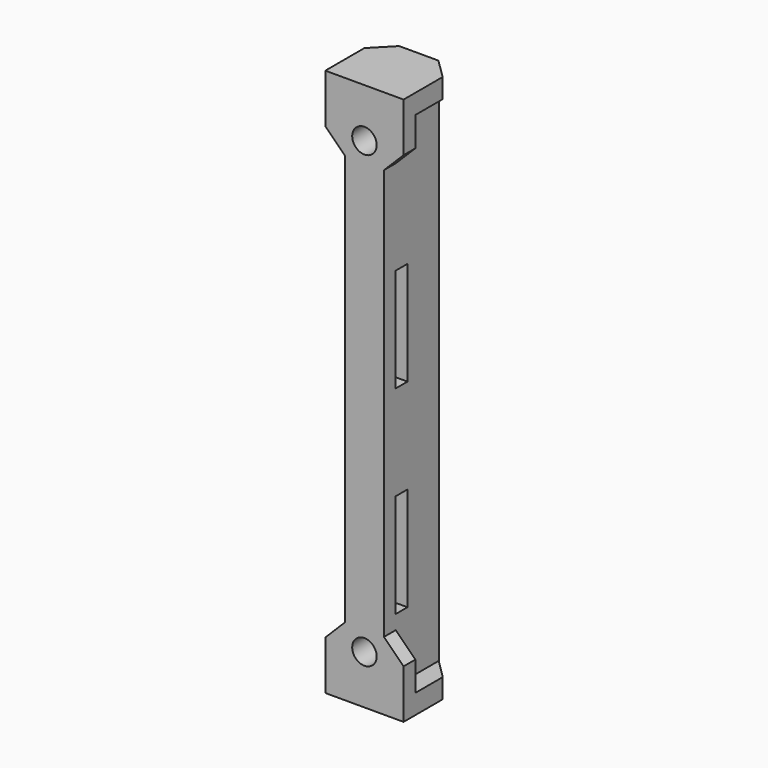
from build123d import *

# Parameters (mm, degrees)
F1_DEPTH  = 2
F3_DEPTH  = 1.5
F5_W      = 4
F5_H      = 5.5
F6_DEPTH  = 52
F4_R      = 1.25
F7_DEPTH  = 5
F8_W      = 1.5
F8_H      = 10.6
F9_DEPTH  = 25
F11_DEPTH = 2


with BuildPart() as f1:
    # F0 (on Top) → F1 (new body)
    with BuildSketch(Plane.XY):
        Polygon((-32.848224, 11.779634), (-32.848224, 6.779634), (-24.848224, 6.779634), (-24.848224, 11.779634), (-26.848224, 13.779634), (-30.848224, 13.779634), align=None)
    extrude(amount=F1_DEPTH)

    # F2 (on face) → F3 (join)
    with BuildSketch(Plane.XZ.offset(-6.779634)):
        Polygon((-32.848224, 5), (-32.848224, 2), (-24.848224, 2), (-24.848224, 5), (-26.848224, 7), (-26.848224, 49), (-24.848224, 51), (-24.848224, 56), (-32.848224, 56), (-32.848224, 51), (-30.848224, 49), (-30.848224, 7), align=None)
    extrude(amount=-F3_DEPTH)

    # F5 (on face) → F6 (join)
    with BuildSketch(Plane.XY.offset(2)):
        with Locations((-28.848224, 11.029634)):
            Rectangle(F5_W, F5_H)
    extrude(amount=F6_DEPTH)

    # F4 (on face) → F7 (cut)
    with BuildSketch(Plane.XZ.offset(-6.779634)):
        with Locations((-28.848224, 5)):
            Circle(F4_R)
        with Locations((-28.848224, 51)):
            Circle(F4_R)
    extrude(amount=-F7_DEPTH, mode=Mode.SUBTRACT)

    # F8 (on face) → F9 (cut)
    with BuildSketch(Plane(origin=(-30.848224, 0, 0), x_dir=(0, -1, 0), z_dir=(-1, 0, 0))):
        with Locations((-9.029634, 13.75)):
            Rectangle(F8_W, F8_H)
        with Locations((-9.029634, 34.05)):
            Rectangle(F8_W, F8_H)
    extrude(amount=-F9_DEPTH, mode=Mode.SUBTRACT)

    # F10 (on face) → F11 (join)
    with BuildSketch(Plane.XY.offset(56)):
        Polygon((-32.848224, 8.279634), (-24.848224, 8.279634), (-24.848224, 11.779634), (-26.893736, 13.779634), (-30.893736, 13.779634), (-32.848224, 11.779634), align=None)
    extrude(amount=-F11_DEPTH)


solid = f1.part
